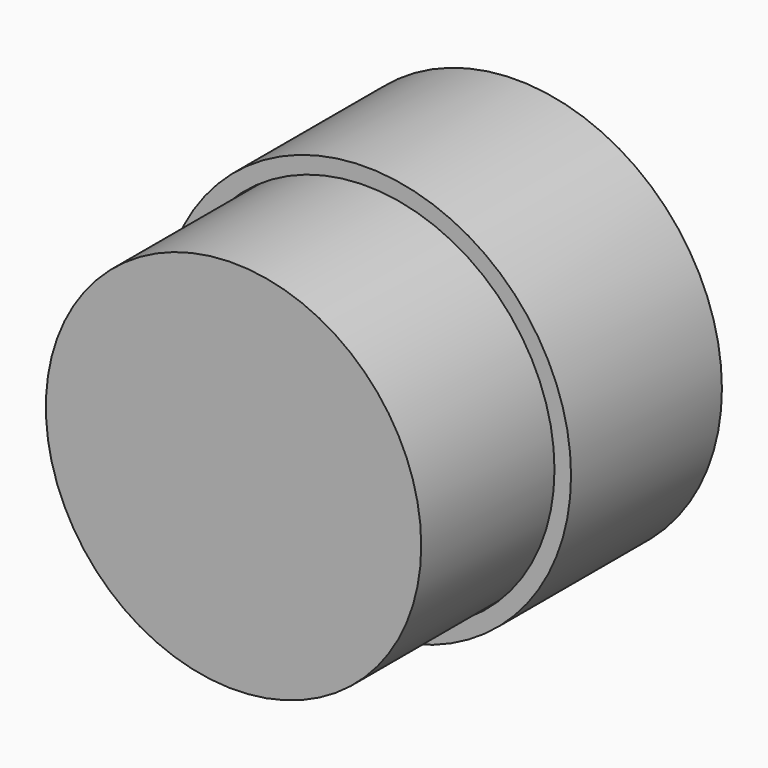
from build123d import *

# Parameters (mm, degrees)
F0_R     = 5.588
F0_R_2   = 4.318
F1_DEPTH = 7.239
F0_R_3   = 15.748
F0_R_4   = 14.478
F2_R     = 14.40807173
F3_DEPTH = 12.7


with BuildPart() as f1:
    # F0 (on Front) → F1 (new body, symmetric)
    with BuildSketch(Plane.XZ):
        Circle(F0_R)
        Circle(F0_R_2, mode=Mode.SUBTRACT)
    extrude(amount=F1_DEPTH, both=True)

    # F2 (on face) → F3 (join, symmetric)
    with BuildSketch(Plane.XZ.offset(7.239)):
        Circle(F2_R)
    extrude(amount=F3_DEPTH, both=True)


with BuildPart() as f1b:
    # F0 (on Front) → F1, piece 2 (new body, symmetric)
    with BuildSketch(Plane.XZ):
        Circle(F0_R_3)
        Circle(F0_R_4, mode=Mode.SUBTRACT)
    extrude(amount=F1_DEPTH, both=True)


solid = Compound([f1.part, f1b.part])
